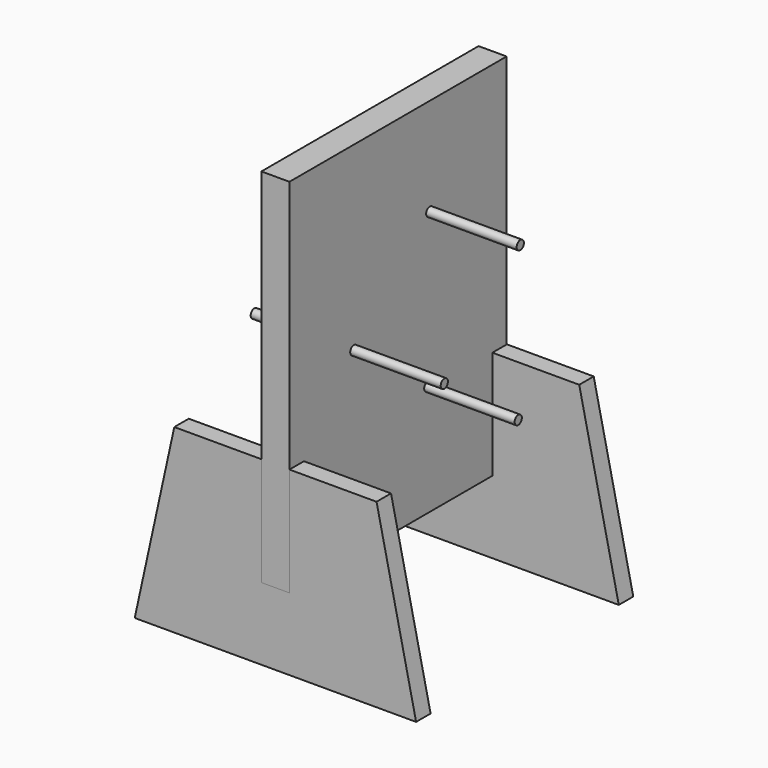
from build123d import *

# Parameters (mm, degrees)
F0_W          = 150
F0_H          = 200
F1_DEPTH      = 15.5
F2_W          = 15.5
F2_H          = 40
F3_DEPTH      = 10
F6_R          = 2.5
F7_DEPTH      = 50
F7_DEPTH_BACK = 55
F9_DEPTH      = 10


with BuildPart() as f1:
    # F0 (on Right) → F1 (new body)
    with BuildSketch(Plane.YZ):
        Rectangle(F0_W, F0_H)
    extrude(amount=F1_DEPTH)


with BuildPart() as f3:
    # F2 (on face) → F3 (new body)
    with BuildSketch(Plane.XZ.offset(75)):
        Polygon((15.5, -40), (15.5, -100), (15.5, -140), (85.5, -140), (63.6316984445, -40), align=None)
        Polygon((0, -140), (0, -100), (0, -40), (-48.1316984445, -40), (-70, -140), align=None)
        with Locations((7.75, -120)):
            Rectangle(F2_W, F2_H)
    extrude(amount=-F3_DEPTH)


with BuildPart() as f4_1:
    # F4: copy of F3
    add(f3.part)


with BuildPart() as f4_1_1:
    # F5: moved
    add(f4_1.part.moved(Location((0, 140, 0))))

    # F8 (on face) → F9 (cut, through all)
    with BuildSketch(Plane(origin=(0, 75, 0), x_dir=(-1, 0, 0), z_dir=(0, 1, 0))):
        Polygon((-15.5, -40), (-15.65, -40), (-15.65, -100.1), (0.15, -100.1), (0.15, -40), (0, -40), (0, -100), (-15.5, -100), align=None)
    extrude(amount=-F9_DEPTH, mode=Mode.SUBTRACT)


with BuildPart() as f7:
    # F6 (on face) → F7 (new body, two sides)
    with BuildSketch(Plane.YZ.offset(15.5)) as f7_sk:
        with Locations((21.9352425351, 46.0600349257)):
            Circle(F6_R)
    extrude(amount=F7_DEPTH)
    extrude(f7_sk.sketch, amount=-F7_DEPTH_BACK)


with BuildPart() as f7b:
    # F6 (on face) → F7, piece 2 (new body, two sides)
    with BuildSketch(Plane.YZ.offset(15.5)) as f7_2_sk:
        with Locations((-30.5236436569, 0)):
            Circle(F6_R)
    extrude(amount=F7_DEPTH)
    extrude(f7_2_sk.sketch, amount=-F7_DEPTH_BACK)


with BuildPart() as f7c:
    # F6 (on face) → F7, piece 3 (new body, two sides)
    with BuildSketch(Plane.YZ.offset(15.5)) as f7_3_sk:
        with Locations((20.5425283647, -38.4312671431)):
            Circle(F6_R)
    extrude(amount=F7_DEPTH)
    extrude(f7_3_sk.sketch, amount=-F7_DEPTH_BACK)


with BuildPart() as f10_1:
    # F10: copy of F4_1
    add(f4_1_1.part)


solid = Compound([f1.part, f3.part, f4_1_1.part, f7.part, f7b.part, f7c.part, f10_1.part])
